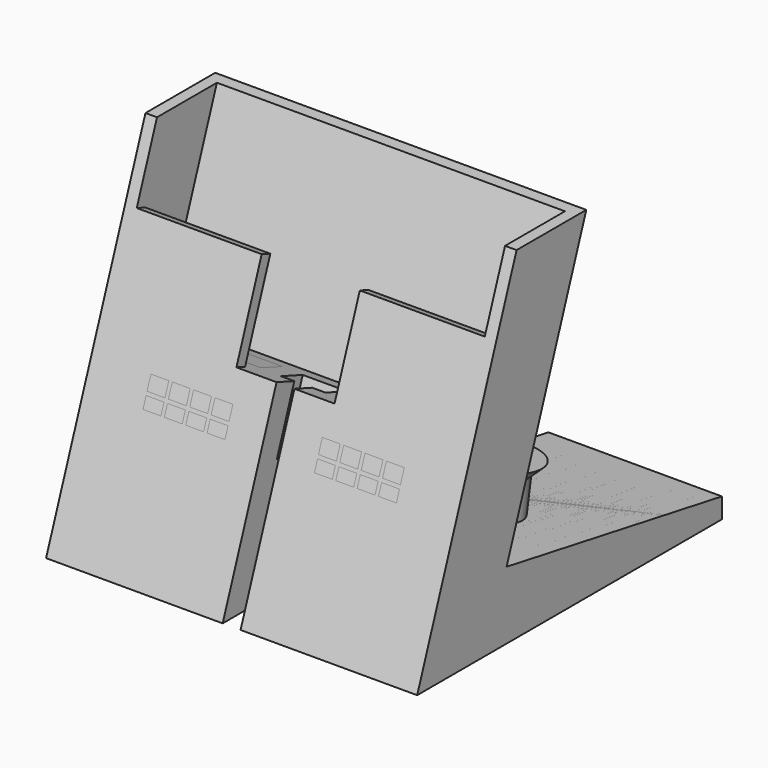
from build123d import *

# Parameters (mm, degrees)
SKETCH_W        = 64.3
SKETCH_H        = 66
PAD_DEPTH       = 64
POCKET_DEPTH    = 64.301
POCKET001_DEPTH = 64.301
POCKET002_DEPTH = 64.301
SKETCH004_W     = 60.3
SKETCH004_H     = 10.2
POCKET003_DEPTH = 34
POCKET004_DEPTH = 23.8796477467
POCKET005_DEPTH = 64.301
SKETCH007_W     = 7.7
SKETCH007_H     = 5
POCKET006_DEPTH = 11.1
SKETCH008_R     = 2.1
POCKET007_DEPTH = 23.0083774385
SKETCH009_W     = 3.1
SKETCH009_H     = 34.1073774385
POCKET008_DEPTH = 6
SKETCH010_W     = 4.19
SKETCH010_H     = 4
POCKET009_DEPTH = 58.7
CHAMFER_SIZE    = 0.1
SKETCH011_W     = 14.2
SKETCH011_H     = 5
POCKET010_DEPTH = 10
SKETCH012_W     = 3.1
SKETCH012_H     = 2.4334377603
SKETCH012_H_2   = 1.9665622397
POCKET011_DEPTH = 5
SKETCH013_R     = 5.5
PAD001_DEPTH    = 6
SKETCH014_R     = 7.5
PAD002_DEPTH    = 2
CHAMFER001_SIZE = 1.99


with BuildPart() as pocket009:
    # Sketch → Pad (new body)
    with BuildSketch(Plane.XY):
        with Locations((32.15, 33)):
            Rectangle(SKETCH_W, SKETCH_H)
    extrude(amount=PAD_DEPTH)

    # Sketch001 → Pocket (cut, through all)
    with BuildSketch(Plane.YZ.offset(64.3)):
        Polygon((0, 0), (0, 64), (23.294094993, 64), align=None)
    extrude(amount=-POCKET_DEPTH, mode=Mode.SUBTRACT)

    # Sketch002 → Pocket001 (cut, through all)
    with BuildSketch(Plane.YZ.offset(64.3)):
        Polygon((38.394094993, 64), (19.3667161036, 11.72270615), (66, 3.5), (66, 64), align=None)
    extrude(amount=-POCKET001_DEPTH, mode=Mode.SUBTRACT)

    # Sketch003 → Pocket002 (cut, through all)
    with BuildSketch(Plane.YZ.offset(64.3)):
        Polygon((23.294094993, 64), (36.6277305386, 59.1469535469), (38.394094993, 64), align=None)
    extrude(amount=-POCKET002_DEPTH, mode=Mode.SUBTRACT)

    # Sketch004 → Pocket003 (cut)
    with BuildSketch(Plane(origin=(0, 23.294094993, 64), x_dir=(1, 0, 0), z_dir=(0, 0.3420201433, 0.9396926208))):
        with Locations((32.15, 7.0893585739)):
            Rectangle(SKETCH004_W, SKETCH004_H)
    extrude(amount=-POCKET003_DEPTH, mode=Mode.SUBTRACT)

    # Sketch005 → Pocket004 (cut, through all)
    with BuildSketch(Plane(origin=(0, 1.869385572, -0.6804007046), x_dir=(-1, 0, 0), z_dir=(0, 0.9396926208, -0.3420201433))):
        Polygon((-62.3, 50.1073774385), (-40.65, 50.1073774385), (-40.65, 34.1073774385), (-23.65, 34.1073774385), (-23.65, 50.1073774385), (-2, 50.1073774385), (-2, 68.1073774385), (-62.3, 68.1073774385), align=None)
    extrude(amount=-POCKET004_DEPTH, mode=Mode.SUBTRACT)

    # Sketch006 → Pocket005 (cut, through all)
    with BuildSketch(Plane.YZ.offset(64.3)):
        Polygon((36.6277305386, 59.1469535469), (21.5277305386, 59.1469535469), (23.294094993, 64), align=None)
    extrude(amount=-POCKET005_DEPTH, mode=Mode.SUBTRACT)

    # Sketch007 → Pocket006 (cut)
    with BuildSketch(Plane(origin=(0, 11.66541012, 32.0504508933), x_dir=(1, 0, 0), z_dir=(0, 0.3420201433, 0.9396926208))):
        with Locations((32.15, 6.5893585739)):
            Rectangle(SKETCH007_W, SKETCH007_H)
    extrude(amount=-POCKET006_DEPTH, mode=Mode.SUBTRACT)

    # Sketch008 → Pocket007 (cut, through all)
    with BuildSketch(Plane(origin=(0, 7.8689865291, 21.6198628026), x_dir=(1, 0, 0), z_dir=(0, 0.3420201433, 0.9396926208))):
        with Locations((32.15, 6.5893585739)):
            Circle(SKETCH008_R)
    extrude(amount=-POCKET007_DEPTH, mode=Mode.SUBTRACT)

    # Sketch009 → Pocket008 (cut)
    with BuildSketch(Plane(origin=(0, 0, 0), x_dir=(1, 0, 0), z_dir=(0, -0.9396926208, 0.3420201433))):
        with Locations((32.15, 17.0536887192)):
            Rectangle(SKETCH009_W, SKETCH009_H)
    extrude(amount=-POCKET008_DEPTH, mode=Mode.SUBTRACT)

    # Sketch010 → Pocket009 (cut)
    with BuildSketch(Plane(origin=(0, 66, 0), x_dir=(-1, 0, 0), z_dir=(0, 1, 0))):
        with Locations((-32.15, 2)):
            Rectangle(SKETCH010_W, SKETCH010_H)
    extrude(amount=-POCKET009_DEPTH, mode=Mode.SUBTRACT)


with BuildPart() as chamfer_body:
    # Chamfer base: copy of Pocket009
    add(pocket009.part)

    # Chamfer
    chamfer_edges = [chamfer_body.edges().sort_by_distance(p)[0] for p in [
        (32.15, 10.702903, 4),
    ]]
    chamfer(chamfer_edges, length=CHAMFER_SIZE)


with BuildPart() as chamfer001:
    # Pocket010 base: copy of Pocket009
    add(pocket009.part)

    # Sketch011 → Pocket010 (cut)
    with BuildSketch(Plane(origin=(0, 11.66541012, 32.0504508933), x_dir=(1, 0, 0), z_dir=(0, 0.3420201433, 0.9396926208))):
        with Locations((17.3, 7.0893585739)):
            Rectangle(SKETCH011_W, SKETCH011_H)
        with Locations((47, 7.0893585739)):
            Rectangle(SKETCH011_W, SKETCH011_H)
    extrude(amount=-POCKET010_DEPTH, mode=Mode.SUBTRACT)

    # Sketch012 → Pocket011 (cut)
    with BuildSketch(Plane(origin=(0, 0, 0), x_dir=(1, 0, 0), z_dir=(0, -0.9396926208, 0.3420201433))):
        with Locations((41.45, 27.8906585583)):
            Rectangle(SKETCH012_W, SKETCH012_H)
        with Locations((45.15, 27.8906585583)):
            Rectangle(SKETCH012_W, SKETCH012_H)
        with Locations((48.85, 27.8906585583)):
            Rectangle(SKETCH012_W, SKETCH012_H)
        with Locations((52.55, 27.8906585583)):
            Rectangle(SKETCH012_W, SKETCH012_H)
        with Locations((41.45, 25.0906585583)):
            Rectangle(SKETCH012_W, SKETCH012_H_2)
        with Locations((45.15, 25.0906585583)):
            Rectangle(SKETCH012_W, SKETCH012_H_2)
        with Locations((48.85, 25.0906585583)):
            Rectangle(SKETCH012_W, SKETCH012_H_2)
        with Locations((52.55, 25.0906585583)):
            Rectangle(SKETCH012_W, SKETCH012_H_2)
    pocket011 = extrude(amount=-POCKET011_DEPTH, mode=Mode.SUBTRACT)

    # Mirrored: Pocket011 across Sketch012 Axis16
    add(pocket011.mirror(Plane(origin=(32.15, 11.66541012, 32.0504508933), x_dir=(0, -0.9396926208, 0.3420201433), z_dir=(1, 0, 0))), mode=Mode.SUBTRACT)

    # Sketch013 → Pad001 (new body)
    with BuildSketch(Plane(origin=(0, 2.5886787649, 14.6811268161), x_dir=(1, 0, 0), z_dir=(0, 0.1736481777, 0.984807753))):
        with Locations((48.6858883869, 32.389543077)):
            Circle(SKETCH013_R)
        with Locations((15.6141116131, 32.389543077)):
            Circle(SKETCH013_R)
    extrude(amount=PAD001_DEPTH)

    # Sketch014 → Pad002 (new body)
    with BuildSketch(Plane(origin=(0, 3.6305678309, 20.5899733342), x_dir=(1, 0, 0), z_dir=(0, 0.1736481777, 0.984807753))):
        with Locations((15.6141116131, 32.389543077)):
            Circle(SKETCH014_R)
        with Locations((48.6858883869, 32.389543077)):
            Circle(SKETCH014_R)
    extrude(amount=PAD002_DEPTH)

    # Chamfer001
    chamfer001_edges = [chamfer001.edges().sort_by_distance(p)[0] for p in [
        (8.114112, 35.528041, 14.965588),
        (41.185888, 35.528041, 14.965588),
    ]]
    chamfer(chamfer001_edges, length=CHAMFER001_SIZE)


solid = Compound([chamfer_body.part, chamfer001.part])
